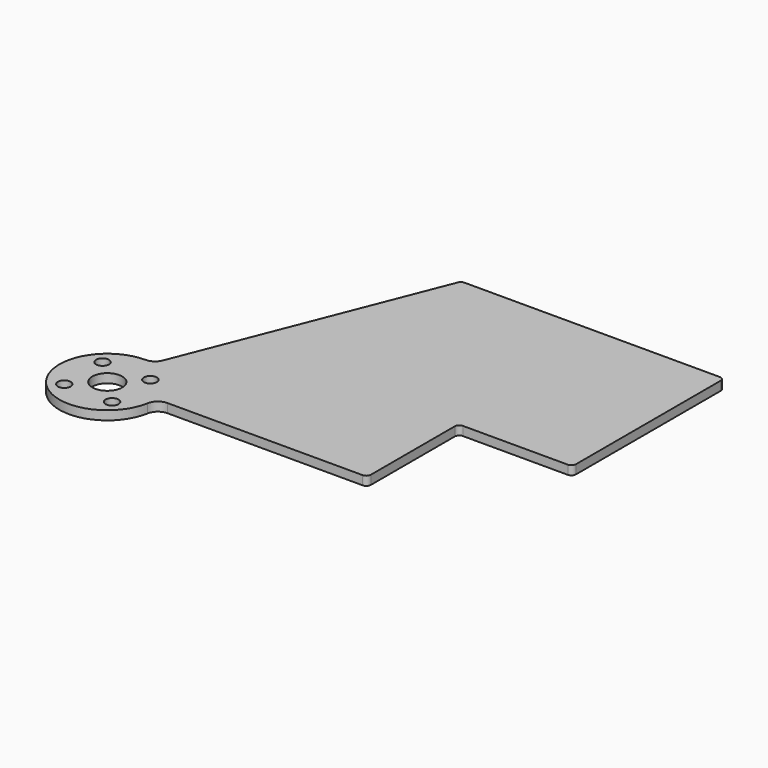
from build123d import *

# Parameters (mm, degrees)
SKETCH_R   = 2.15
SKETCH_R_2 = 5
PAD_DEPTH  = 3


with BuildPart() as part:
    # Sketch → Pad (new body)
    with BuildSketch(Plane.XY):
        with BuildLine():
            Line((36.7, 0.5), (85, 0.5))
            ThreePointArc((85, 0.5), (86.06066, 0.93934), (86.5, 2))
            Line((86.5, 2), (86.5, 37.1))
            ThreePointArc((88, 38.6), (86.93934, 38.16066), (86.5, 37.1))
            Line((88, 38.6), (123.1, 38.6))
            ThreePointArc((123.1, 38.6), (124.16066, 39.03934), (124.6, 40.1))
            Line((124.6, 40.1), (124.6, 100.6))
            ThreePointArc((124.6, 100.6), (124.16066, 101.66066), (123.1, 102.1))
            Line((123.1, 102.1), (85, 102.1))
            Line((85, 102.1), (37.720623, 102.1))
            ThreePointArc((37.720623, 102.1), (36.876806, 101.84015), (36.325343, 101.150631))
            Line((3.720746, 18.531652), (36.325343, 101.150631))
            ThreePointArc((0, 16), (2.250179, 16.692932), (3.720746, 18.531652))
            ThreePointArc((0, 16), (-12.263768, -10.276186), (15.753095, -2.8))
            ThreePointArc((19.691369, 0.5), (17.122322, -0.434058), (15.753095, -2.8))
            Line((36.7, 0.5), (19.691369, 0.5))
        make_face()
        with Locations((-8, 8)):
            Circle(SKETCH_R, mode=Mode.SUBTRACT)
        with Locations((8, 8)):
            Circle(SKETCH_R, mode=Mode.SUBTRACT)
        with Locations((-8, -8)):
            Circle(SKETCH_R, mode=Mode.SUBTRACT)
        with Locations((8, -8)):
            Circle(SKETCH_R, mode=Mode.SUBTRACT)
        Circle(SKETCH_R_2, mode=Mode.SUBTRACT)
    extrude(amount=PAD_DEPTH)


solid = part.part
